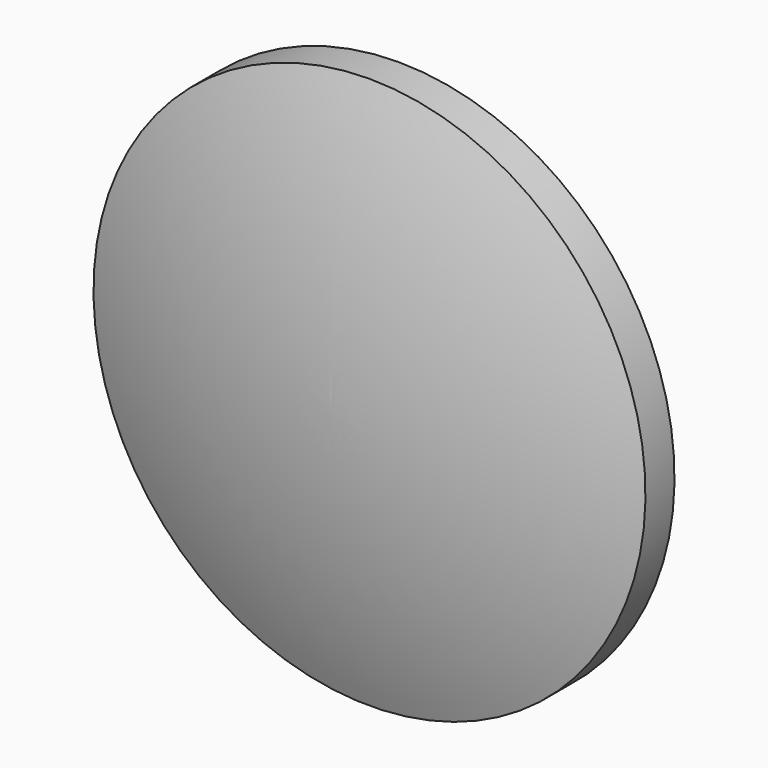
from build123d import *


with BuildPart() as f1:
    # F0 (on Right) → F1 (revolve)
    with BuildSketch(Plane.YZ):
        with BuildLine():
            Line((1.25, 19), (-1.25, 19))
            ThreePointArc((-1.25, 19), (-3.681642, 9.637978), (-4.5, 0))
            Line((-4.5, 0), (4.5, 0))
            ThreePointArc((4.5, 0), (3.681642, 9.637978), (1.25, 19))
        make_face()
    revolve(axis=Axis((0, 0, 0), (0, 1, 0)))


solid = f1.part
